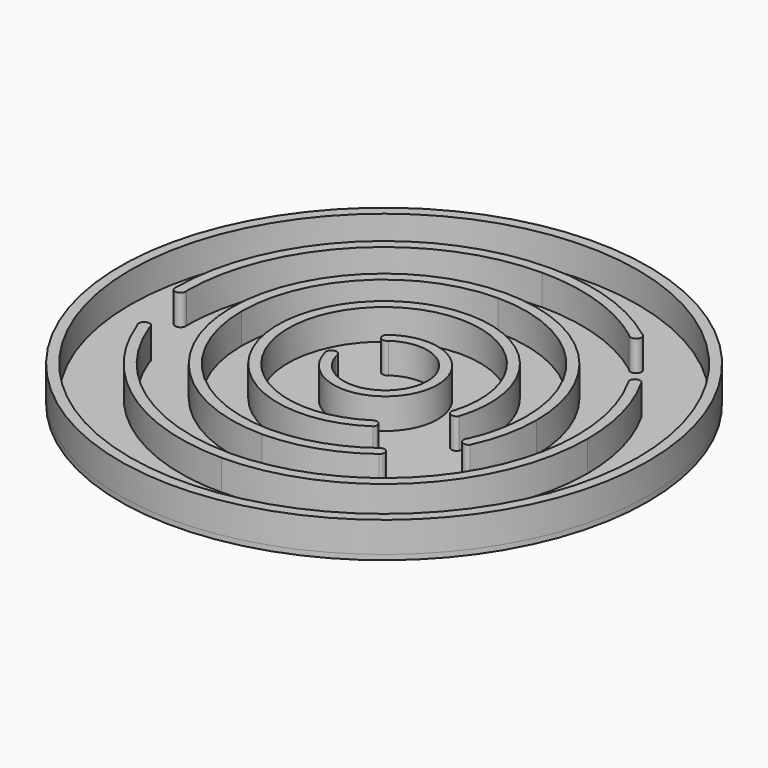
from build123d import *

# Parameters (mm, degrees)
F0_R     = 52
F0_R_2   = 50
F1_DEPTH = 6
F2_R     = 52
F3_DEPTH = 1


with BuildPart() as f1:
    # F0 (on Top) → F1 (new body)
    with BuildSketch(Plane.XY):
        Circle(F0_R)
        Circle(F0_R_2, mode=Mode.SUBTRACT)
        with BuildLine():
            ThreePointArc((-38.902503, 0), (-27.508223, 27.508223), (0, 38.902503))
            ThreePointArc((0, 38.902503), (12.347381, 36.891013), (23.417898, 31.064558))
            ThreePointArc((23.417898, 31.064558), (25.225396, 30.954294), (24.621825, 32.661605))
            ThreePointArc((24.621825, 32.661605), (12.982167, 38.787602), (0, 40.902503))
            ThreePointArc((0, 40.902503), (-28.922437, 28.922437), (-40.902503, 0))
            ThreePointArc((-40.902503, 0), (-39.902503, -1.319596), (-38.902503, 0))
        make_face()
        with BuildLine():
            ThreePointArc((30.050792, 0), (21.249119, 21.249119), (0, 30.050792))
            ThreePointArc((0, 30.050792), (-21.249119, 21.249119), (-30.050792, 0))
            ThreePointArc((-30.050792, 0), (-21.249119, -21.249119), (0, -30.050792))
            ThreePointArc((0, -30.050792), (9.57175, -28.485641), (18.146439, -23.953223))
            ThreePointArc((18.146439, -23.953223), (18.402873, -22.545498), (16.989826, -22.320232))
            ThreePointArc((16.989826, -22.320232), (8.96512, -26.579571), (0, -28.050792))
            ThreePointArc((0, -28.050792), (-19.834906, -19.834906), (-28.050792, 0))
            ThreePointArc((-28.050792, 0), (-19.834906, 19.834906), (0, 28.050792))
            ThreePointArc((0, 28.050792), (19.834906, 19.834906), (28.050792, 0))
            ThreePointArc((28.050792, 0), (27.442078, -5.811997), (25.642354, -11.371748))
            ThreePointArc((25.642354, -11.371748), (25.67486, -12.876808), (27.179184, -12.819597))
            ThreePointArc((27.179184, -12.819597), (29.324104, -6.568642), (30.050792, 0))
        make_face()
        with BuildLine():
            ThreePointArc((10.262292, -15.878489), (-15.156229, 11.301759), (18.146439, -5.30545))
            ThreePointArc((18.146439, -5.30545), (18.443205, -6.744135), (19.883895, -6.457259))
            ThreePointArc((19.883895, -6.457259), (-16.695347, 12.58296), (11.685061, -17.335652))
            ThreePointArc((11.685061, -17.335652), (11.66527, -15.931801), (10.262292, -15.878489))
        make_face()
        with BuildLine():
            ThreePointArc((-7.395882, -2.551486), (-8.758352, -1.388365), (-9.322391, -3.088669))
            ThreePointArc((-9.322391, -3.088669), (10.22344, -3.747243), (-5.40562, 8.008849))
            ThreePointArc((-5.40562, 8.008849), (-5.803945, 6.495381), (-4.243093, 6.381418))
            ThreePointArc((-4.243093, 6.381418), (8.33746, -3.081603), (-7.395882, -2.551486))
        make_face()
        with BuildLine():
            ThreePointArc((0, -38.067461), (-21.811634, -31.199107), (-35.752501, -13.0725))
            ThreePointArc((-35.752501, -13.0725), (-37.201245, -12.0223), (-37.630877, -13.759307))
            ThreePointArc((-37.630877, -13.759307), (-22.95758, -32.838255), (0, -40.067461))
            ThreePointArc((0, -40.067461), (28.331974, -28.331974), (40.067461, 0))
            ThreePointArc((40.067461, 0), (38.749221, 10.193101), (34.881243, 19.715485))
            ThreePointArc((34.881243, 19.715485), (33.475693, 20.169943), (33.140117, 18.731371))
            ThreePointArc((33.140117, 18.731371), (36.815022, 9.684304), (38.067461, 0))
            ThreePointArc((38.067461, 0), (26.91776, -26.91776), (0, -38.067461))
        make_face()
    extrude(amount=F1_DEPTH)


with BuildPart() as f3:
    # F2 (on Top) → F3 (new body)
    with BuildSketch(Plane.XY):
        Circle(F2_R)
        with BuildLine():
            ThreePointArc((11.685061, -17.335652), (-16.695347, 12.58296), (19.883895, -6.457259))
            ThreePointArc((19.883895, -6.457259), (18.443205, -6.744135), (18.146439, -5.30545))
            ThreePointArc((18.146439, -5.30545), (-15.156229, 11.301759), (10.262292, -15.878489))
            ThreePointArc((10.262292, -15.878489), (11.66527, -15.931801), (11.685061, -17.335652))
        make_face(mode=Mode.SUBTRACT)
    extrude(amount=-F3_DEPTH)


solid = Compound([f1.part, f3.part])
